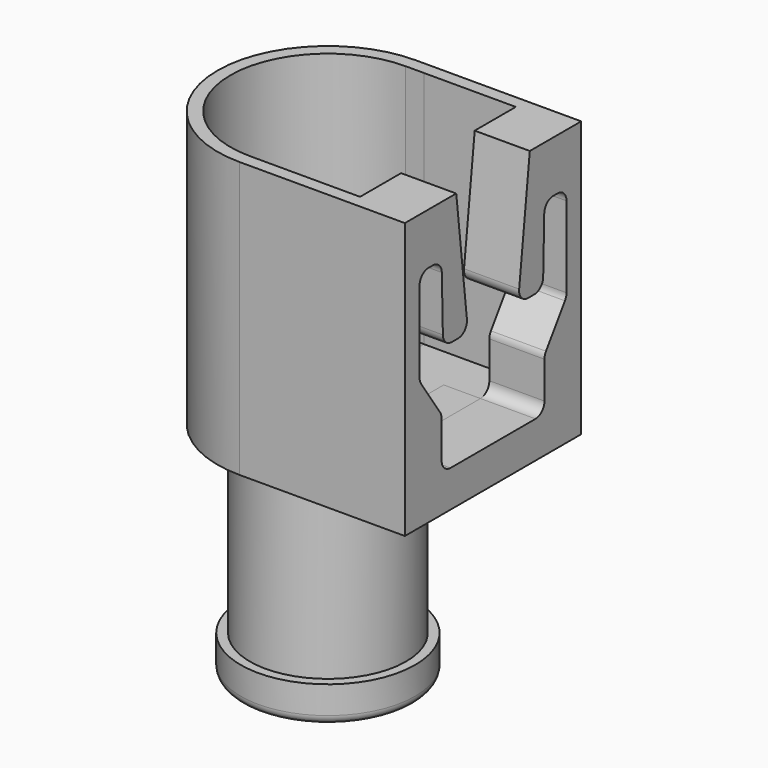
from build123d import *

# Parameters (mm, degrees)
F1_DEPTH  = 15
F2_R      = 4.25
F2_R_2    = 3.75
F3_DEPTH  = 10
F4_R      = 4.75
F4_R_2    = 4.25
F4_R_3    = 3.75
F5_DEPTH  = 2
F7_DEPTH  = 13
F8_DEPTH  = 2
F7_FACE_W = 10.6
F7_FACE_H = 13
F10_DEPTH = 5
F11_R     = 0.5


with BuildPart() as f1:
    # F0 (on Top) → F1 (new body)
    with BuildSketch(Plane.XY):
        with BuildLine():
            Line((0, 6), (-9, 6))
            ThreePointArc((-9, 6), (-15, 0), (-9, -6))
            Line((-9, -6), (0, -6))
            Line((0, -6), (0, 6))
        make_face()
    extrude(amount=F1_DEPTH)

    # F2 (on Top) → F3 (join)
    with BuildSketch(Plane.XY):
        with Locations((-8.9916, 0)):
            Circle(F2_R)
        with Locations((-8.9916, 0)):
            Circle(F2_R_2, mode=Mode.SUBTRACT)
    extrude(amount=-F3_DEPTH)

    # F4 (on face) → F5 (join)
    with BuildSketch(Plane(origin=(0, 0, -10), x_dir=(1, 0, 0), z_dir=(0, 0, -1))):
        with Locations((-8.9916, 0)):
            Circle(F4_R)
        with Locations((-8.9916, 0)):
            Circle(F4_R_2, mode=Mode.SUBTRACT)
        with Locations((-8.9916, 0)):
            Circle(F4_R_2)
        with Locations((-8.9916, 0)):
            Circle(F4_R_3, mode=Mode.SUBTRACT)
    extrude(amount=F5_DEPTH)

    # F6 (on face) → F7 (cut)
    with BuildSketch(Plane.XY.offset(15)):
        with BuildLine():
            Line((-3, -5.3), (-3, 5.3))
            Line((-3, 5.3), (-9, 5.3))
            ThreePointArc((-9, 5.3), (-14.3, 0), (-9, -5.3))
            Line((-9, -5.3), (-3, -5.3))
        make_face()
    extrude(amount=-F7_DEPTH, mode=Mode.SUBTRACT)

    # F8 (cut, through all): a face of the model
    f8_faces = [f1.faces().sort_by_distance(p)[0] for p in [
        (-8.9916, 0, 0),
    ]]
    extrude(f8_faces, amount=-F8_DEPTH, mode=Mode.SUBTRACT)

    # F9 (on face) + F7_face (on face) → F10 (cut)
    with BuildSketch(Plane.YZ):
        with BuildLine():
            Line((-3.5, 4.6132088465), (-3.5, 2.6055402327))
            ThreePointArc((-3.5, 2.6055402327), (-3.3226413721, 2.1773586279), (-2.8944597673, 2))
            Line((-2.8944597673, 2), (0, 2))
            Line((0, 2), (2.8944597673, 2))
            ThreePointArc((2.8944597673, 2), (3.3226413721, 2.1773586279), (3.5, 2.6055402327))
            Line((3.5, 2.6055402327), (3.5, 4.6132088465))
            ThreePointArc((3.5, 4.6132088465), (3.5269042645, 4.7917008345), (3.6052263353, 4.9543319584))
            Line((3.6052263353, 4.9543319584), (4.8947736647, 6.8456680416))
            ThreePointArc((4.8947736647, 6.8456680416), (4.9730957355, 7.0082991655), (5, 7.1867911535))
            Line((5, 7.1867911535), (5, 11.5944597673))
            ThreePointArc((5, 11.5944597673), (4.8226413721, 12.0226413721), (4.3944597673, 12.2))
            Line((4.3944597673, 12.2), (4.0912942222, 12.2))
            ThreePointArc((4.0912942222, 12.2), (3.668239264, 12.0277073591), (3.4859255549, 11.608873307))
            Line((3.4859255549, 11.608873307), (3.4140744451, 8.591126693))
            ThreePointArc((3.4140744451, 8.591126693), (3.231760736, 8.1722926409), (2.8087057778, 8))
            Line((2.8087057778, 8), (2.3789951326, 8))
            ThreePointArc((2.3789951326, 8), (1.9270666838, 8.2025022065), (1.7774022402, 8.6745689611))
            Line((1.7774022402, 8.6745689611), (2.5, 14.9720872054))
            Line((2.5, 14.9720872054), (2.503202805, 15))
            Line((2.503202805, 15), (-2.5090757857, 15))
            Line((-2.5090757857, 15), (-2.5, 14.9720872054))
            Line((-2.5, 14.9720872054), (-1.7774022402, 8.6745689611))
            ThreePointArc((-1.7774022402, 8.6745689611), (-1.9270666838, 8.2025022065), (-2.3789951326, 8))
            Line((-2.3789951326, 8), (-2.8087057778, 8))
            ThreePointArc((-2.8087057778, 8), (-3.231760736, 8.1722926409), (-3.4140744451, 8.591126693))
            Line((-3.4140744451, 8.591126693), (-3.4859255549, 11.608873307))
            ThreePointArc((-3.4859255549, 11.608873307), (-3.668239264, 12.0277073591), (-4.0912942222, 12.2))
            Line((-4.0912942222, 12.2), (-4.3944597673, 12.2))
            ThreePointArc((-4.3944597673, 12.2), (-4.8226413721, 12.0226413721), (-5, 11.5944597673))
            Line((-5, 11.5944597673), (-5, 7.1867911535))
            ThreePointArc((-5, 7.1867911535), (-4.9730957355, 7.0082991655), (-4.8947736647, 6.8456680416))
            Line((-4.8947736647, 6.8456680416), (-3.6052263353, 4.9543319584))
            ThreePointArc((-3.6052263353, 4.9543319584), (-3.5269042645, 4.7917008345), (-3.5, 4.6132088465))
        make_face()
    with BuildSketch(Plane(origin=(-3, 0, 8.5), x_dir=(0, -1, 0), z_dir=(-1, 0, 0))):
        Rectangle(F7_FACE_W, F7_FACE_H)
    extrude(amount=-F10_DEPTH, dir=(1, 0, 0), mode=Mode.SUBTRACT)

    # F11
    f11_edges = [f1.edges().sort_by_distance(p)[0] for p in [
        (-13.7416, 0, -12),
    ]]
    fillet(f11_edges, radius=F11_R)


solid = f1.part
